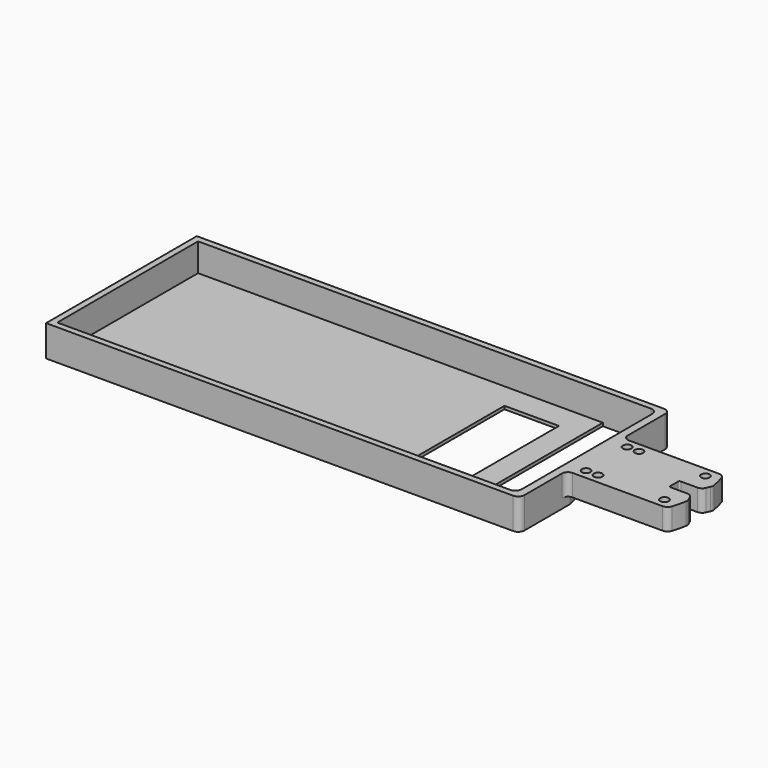
from build123d import *

# Parameters (mm, degrees)
F0_R      = 3.46075
F1_DEPTH  = 17.6022
F3_DEPTH  = 17.6032
F4_R      = 5.08
F5_T      = -3.81
F6_R      = 1.27
F7_R      = 5.08
F9_DEPTH  = 13.7922
F10_DEPTH = 13.7922
F11_W     = 3
F11_H     = 26.392
F12_DEPTH = 13.7922
F14_DEPTH = 25.4
F17_DEPTH = 25.4
F19_START = -2.54
F18_W     = 374.65
F18_H     = 143.51
F19_DEPTH = 22.861
F20_W     = 44.45
F20_H     = 143.51
F21_DEPTH = 25.401
F22_W     = 44.45
F22_H     = 101.6
F23_DEPTH = 2.541
F24_R     = 5.08


with BuildPart() as f1:
    # F0 (on Top) → F1 (new body)
    with BuildSketch(Plane.XY):
        with BuildLine():
            Line((40.3479, 28.702), (-40.3479, 28.702))
            ThreePointArc((-40.3479, 28.702), (-44.1481068354, 14.5740454576), (-45.4279, 0))
            ThreePointArc((-45.4279, 0), (-44.1481068354, -14.5740454576), (-40.3479, -28.702))
            Line((-40.3479, -28.702), (40.3479, -28.702))
            ThreePointArc((40.3479, -28.702), (44.1481068354, -14.5740454576), (45.4279, 0))
            ThreePointArc((45.4279, 0), (44.1481068354, 14.5740454576), (40.3479, 28.702))
        make_face()
        with Locations((-31.9405, -20.88515)):
            Circle(F0_R, mode=Mode.SUBTRACT)
        with Locations((-22.225, -20.88515)):
            Circle(F0_R, mode=Mode.SUBTRACT)
        with Locations((31.9405, -20.88515)):
            Circle(F0_R, mode=Mode.SUBTRACT)
        with Locations((-31.9405, 20.88515)):
            Circle(F0_R, mode=Mode.SUBTRACT)
        with Locations((-22.225, 20.88515)):
            Circle(F0_R, mode=Mode.SUBTRACT)
        with Locations((31.9405, 20.88515)):
            Circle(F0_R, mode=Mode.SUBTRACT)
    extrude(amount=-F1_DEPTH)

    # F2 (on face) → F3 (cut, through all)
    with BuildSketch(Plane.XY):
        with BuildLine():
            Line((41.1861, -5.207), (44.4578879678, -12.7))
            ThreePointArc((44.4578879678, -12.7), (45.4279, 0), (44.4578879678, 12.7))
            Line((44.4578879678, 12.7), (41.1861, 5.207))
            Line((41.1861, 5.207), (23.1521, 5.207))
            Line((23.1521, 5.207), (23.1521, -5.207))
            Line((23.1521, -5.207), (41.1861, -5.207))
        make_face()
    extrude(amount=-F3_DEPTH, mode=Mode.SUBTRACT)

    # F4
    f4_edges = [f1.edges().sort_by_distance(p)[0] for p in [
        (40.3479, -28.702, -8.8011),
        (-40.3479, -28.702, -8.8011),
        (44.457888, -12.7, -8.8011),
        (41.1861, 5.207, -8.8011),
        (44.457888, 12.7, -8.8011),
        (40.3479, 28.702, -8.8011),
        (41.1861, -5.207, -8.8011),
        (-40.3479, 28.702, -8.8011),
    ]]
    fillet(f4_edges, radius=F4_R)

    # F5
    f5_openings = [f1.faces().sort_by_distance(p)[0] for p in [
        (-1.726603, 0, -17.6022),
    ]]
    offset(amount=F5_T, openings=f5_openings, kind=Kind.INTERSECTION)

    # F6
    f6_edges = [f1.edges().sort_by_distance(p)[0] for p in [
        (23.1521, -5.207, -8.8011),
        (23.1521, 5.207, -8.8011),
    ]]
    fillet(f6_edges, radius=F6_R)

    # F7
    f7_edges = [f1.edges().sort_by_distance(p)[0] for p in [
        (19.3421, 9.017, -10.7061),
        (19.3421, -9.017, -10.7061),
    ]]
    fillet(f7_edges, radius=F7_R)

    # F8 (on face) → F9 (join, through all)
    with BuildSketch(Plane(origin=(0, 0, -3.81), x_dir=(1, 0, 0), z_dir=(0, 0, -1))):
        with BuildLine():
            ThreePointArc((-30.4405, 13.770811973), (-31.9405, 13.6144), (-33.4405, 13.770811973))
            Line((-33.4405, 13.770811973), (-33.4405, 1.5))
            Line((-33.4405, 1.5), (-41.6038033335, 1.5))
            ThreePointArc((-41.6038033335, 1.5), (-41.6179, 0), (-41.6038033335, -1.5))
            Line((-41.6038033335, -1.5), (-33.4405, -1.5))
            Line((-33.4405, -1.5), (-33.4405, -13.770811973))
            ThreePointArc((-33.4405, -13.770811973), (-31.9405, -13.6144), (-30.4405, -13.770811973))
            Line((-30.4405, -13.770811973), (-30.4405, -1.5))
            Line((-30.4405, -1.5), (-23.725, -1.5))
            Line((-23.725, -1.5), (-23.725, -13.770811973))
            ThreePointArc((-23.725, -13.770811973), (-22.225, -13.6144), (-20.725, -13.770811973))
            Line((-20.725, -13.770811973), (-20.725, -1.5))
            Line((-20.725, -1.5), (-11.6858483937, -1.5))
            Line((-11.6858483937, -1.5), (-19.2338569272, -14.2581696408))
            ThreePointArc((-19.2338569272, -14.2581696408), (-18.2221749105, -14.8154550435), (-17.3115079246, -15.5259148691))
            Line((-17.3115079246, -15.5259148691), (-9.2664339883, -1.9275706705))
            Line((-9.2664339883, -1.9275706705), (3.9282284547, -24.892))
            Line((3.9282284547, -24.892), (6.6006028975, -24.892))
            Line((6.6006028975, -24.892), (19.3421, -3.3554343231))
            Line((19.3421, -3.3554343231), (19.3421, 3.3554343231))
            Line((19.3421, 3.3554343231), (6.6006028975, 24.892))
            Line((6.6006028975, 24.892), (3.9282284547, 24.892))
            Line((3.9282284547, 24.892), (-9.2664339883, 1.9275706705))
            Line((-9.2664339883, 1.9275706705), (-17.3115079246, 15.5259148691))
            ThreePointArc((-17.3115079246, 15.5259148691), (-18.2221749105, 14.8154550435), (-19.2338569272, 14.2581696408))
            Line((-19.2338569272, 14.2581696408), (-11.6858483937, 1.5))
            Line((-11.6858483937, 1.5), (-20.725, 1.5))
            Line((-20.725, 1.5), (-20.725, 13.770811973))
            ThreePointArc((-20.725, 13.770811973), (-22.225, 13.6144), (-23.725, 13.770811973))
            Line((-23.725, 13.770811973), (-23.725, 1.5))
            Line((-23.725, 1.5), (-30.4405, 1.5))
            Line((-30.4405, 1.5), (-30.4405, 13.770811973))
        make_face()
        Polygon((16.9541091985, -1.5), (4.85775, -21.9461086663), (-7.2386091985, -1.5), align=None, mode=Mode.SUBTRACT)
        Polygon((-7.2386091985, 1.5), (4.85775, 21.9461086663), (16.9541091985, 1.5), align=None, mode=Mode.SUBTRACT)
    extrude(amount=F9_DEPTH)

    # F8 (on face) → F10 (join, through all)
    with BuildSketch(Plane(origin=(0, 0, -3.81), x_dir=(1, 0, 0), z_dir=(0, 0, -1))):
        with BuildLine():
            ThreePointArc((33.4405, 13.770811973), (31.9405, 13.6144), (30.4405, 13.770811973))
            Line((30.4405, 13.770811973), (30.4405, 9.017))
            Line((30.4405, 9.017), (33.4405, 9.017))
            Line((33.4405, 9.017), (33.4405, 13.770811973))
        make_face()
        with BuildLine():
            Line((30.4405, -9.017), (30.4405, -13.770811973))
            ThreePointArc((30.4405, -13.770811973), (31.9405, -13.6144), (33.4405, -13.770811973))
            Line((33.4405, -13.770811973), (33.4405, -9.017))
            Line((33.4405, -9.017), (30.4405, -9.017))
        make_face()
    extrude(amount=F10_DEPTH)

    # F11 (on face) → F12 (join, through all)
    with BuildSketch(Plane(origin=(0, 0, -3.81), x_dir=(1, 0, 0), z_dir=(0, 0, -1))):
        Polygon((4.85775, -21.9461086663), (6.35775, -19.4107042115), (6.35775, -1.5), (3.35775, -1.5), (3.35775, -19.4107042115), align=None)
        with Locations((4.85775, 11.696)):
            Rectangle(F11_W, F11_H)
    extrude(amount=F12_DEPTH)


with BuildPart() as f14:
    # F13 (on Top) → F14 (new body)
    with BuildSketch(Plane.XY):
        with BuildLine():
            Line((-427.6979, -76.835), (-41.5563505644, -76.835))
            Line((-41.5563505644, -76.835), (-41.5563505644, -33.5468082961))
            ThreePointArc((-41.5563505644, -33.5468082961), (-40.137339068, -30.1210114964), (-36.7115422683, -28.702))
            ThreePointArc((-36.7115422683, -28.702), (-39.7152963104, -27.7188111568), (-41.5563505644, -25.1498195489))
            ThreePointArc((-41.5563505644, -25.1498195489), (-45.4279, 0), (-41.5563505644, 25.1498195489))
            ThreePointArc((-41.5563505644, 25.1498195489), (-39.7152963104, 27.7188111568), (-36.7115422683, 28.702))
            ThreePointArc((-36.7115422683, 28.702), (-40.137339068, 30.1210114964), (-41.5563505644, 33.5468082961))
            Line((-41.5563505644, 33.5468082961), (-41.5563505644, 76.835))
            Line((-41.5563505644, 76.835), (-427.6979, 76.835))
            Line((-427.6979, 76.835), (-427.6979, -76.835))
        make_face()
    extrude(amount=-F14_DEPTH)

    # F15: union F1
    add(f1.part)

    # F16 (on face) → F17 (cut)
    with BuildSketch(Plane(origin=(0, 0, -17.6022), x_dir=(1, 0, 0), z_dir=(0, 0, -1))):
        with BuildLine():
            ThreePointArc((-36.7115422683, -28.702), (-39.7152963104, -27.7188111568), (-41.5563505644, -25.1498195489))
            Line((-41.5563505644, -25.1498195489), (-41.5563505644, -33.5468082961))
            Line((-41.5563505644, -33.5468082961), (38.19525, -33.5468082961))
            Line((38.19525, -33.5468082961), (38.19525, -28.48049888))
            ThreePointArc((38.19525, -28.48049888), (37.4616174944, -28.6463195714), (36.7115422683, -28.702))
            Line((36.7115422683, -28.702), (-36.7115422683, -28.702))
        make_face()
        with BuildLine():
            Line((38.19525, 33.5468082961), (-41.5563505644, 33.5468082961))
            Line((-41.5563505644, 33.5468082961), (-41.5563505644, 25.1498195489))
            ThreePointArc((-41.5563505644, 25.1498195489), (-39.7152963104, 27.7188111568), (-36.7115422683, 28.702))
            Line((-36.7115422683, 28.702), (36.7115422683, 28.702))
            ThreePointArc((36.7115422683, 28.702), (37.4616174944, 28.6463195714), (38.19525, 28.48049888))
            Line((38.19525, 28.48049888), (38.19525, 33.5468082961))
        make_face()
    extrude(amount=F17_DEPTH, mode=Mode.SUBTRACT)

    # F18 (on face) → F19 (cut)
    with BuildSketch(Plane(origin=(0, 0, -25.4), x_dir=(1, 0, 0), z_dir=(0, 0, -1)).offset(F19_START)):
        with Locations((-235.2929, 0)):
            Rectangle(F18_W, F18_H)
    extrude(amount=-F19_DEPTH, mode=Mode.SUBTRACT)

    # F20 (on face) → F21 (cut, through all)
    with BuildSketch(Plane.XY):
        with Locations((-70.1929, 0)):
            Rectangle(F20_W, F20_H)
    extrude(amount=-F21_DEPTH, mode=Mode.SUBTRACT)

    # F22 (on face) → F23 (cut, through all)
    with BuildSketch(Plane.XY.offset(-22.86)):
        with Locations((-133.6929, 0)):
            Rectangle(F22_W, F22_H)
    extrude(amount=-F23_DEPTH, mode=Mode.SUBTRACT)

    # F24
    f24_edges = [f14.edges().sort_by_distance(p)[0] for p in [
        (-41.556351, -76.835, -12.7),
        (-41.556351, 76.835, -12.7),
        (-47.9679, 71.755, -12.7),
        (-47.9679, -71.755, -12.7),
    ]]
    fillet(f24_edges, radius=F24_R)


solid = f14.part
